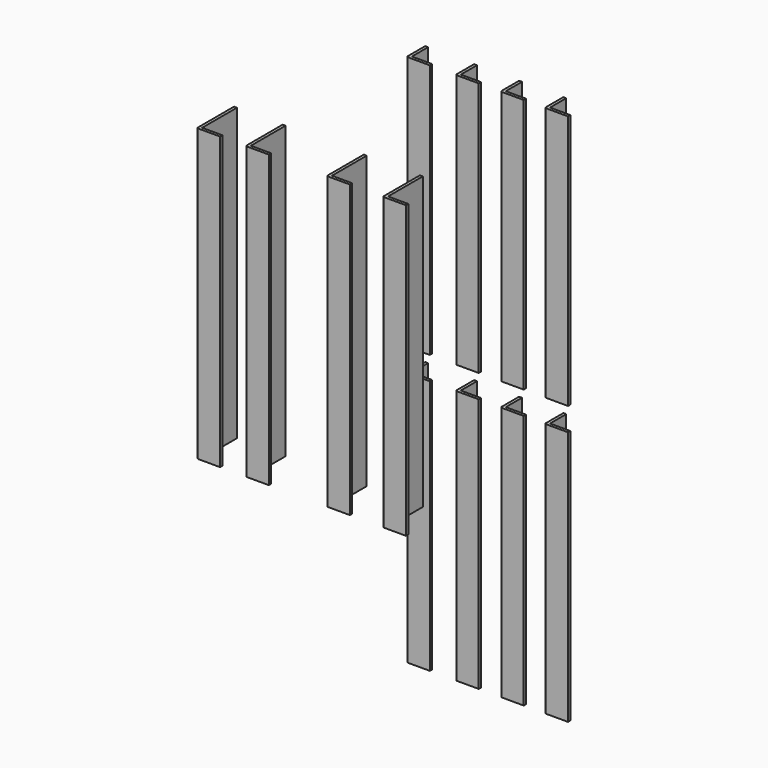
from build123d import *

# Parameters (mm, degrees)
F1_DEPTH = 139.7
F8_DEPTH = 159.46628


with BuildPart() as f1:
    # F0 (on Top) → F1 (new body, symmetric)
    with BuildSketch(Plane.XY):
        with BuildLine():
            Line((-49.7872025788, 48.7312248474), (-52.9622025788, 48.7312248474))
            Line((-52.9622025788, 48.7312248474), (-52.9622025788, 24.9187248474))
            ThreePointArc((-52.9622025788, 24.9187248474), (-52.4972345939, 23.7961928322), (-51.3747025788, 23.3312248474))
            Line((-51.3747025788, 23.3312248474), (-27.5622025788, 23.3312248474))
            Line((-27.5622025788, 23.3312248474), (-27.5622025788, 26.5062248474))
            Line((-27.5622025788, 26.5062248474), (-49.7872025788, 26.5062248474))
            Line((-49.7872025788, 26.5062248474), (-49.7872025788, 48.7312248474))
        make_face()
    extrude(amount=F1_DEPTH, both=True)


with BuildPart() as f2_1:
    # F2: copy of F1
    add(f1.part.moved(Location((53.594, 0, 0))))


with BuildPart() as f3_1:
    # F3: copy of F2_1
    add(f2_1.part.moved(Location((49.276, 0, 0))))


with BuildPart() as f4_1:
    # F4: copy of F2_1
    add(f2_1.part.moved(Location((97.79, 0, 0))))


with BuildPart() as f1_1:
    # F5: moved
    add(f1.part.moved(Location((0, 0, -193.294))))


with BuildPart() as f2_1_1:
    # F5: moved
    add(f2_1.part.moved(Location((0, 0, -193.294))))


with BuildPart() as f4_1_1:
    # F5: moved
    add(f4_1.part.moved(Location((0, 0, -193.294))))


with BuildPart() as f3_1_1:
    # F5: moved
    add(f3_1.part.moved(Location((0, 0, -193.294))))


with BuildPart() as f6_1:
    # F6: copy of F1
    add(f1_1.part.moved(Location((0, 0, 304.8))))


with BuildPart() as f6_2:
    # F6: copy of F2_1
    add(f2_1_1.part.moved(Location((0, 0, 304.8))))


with BuildPart() as f6_3:
    # F6: copy of F3_1
    add(f3_1_1.part.moved(Location((0, 0, 304.8))))


with BuildPart() as f6_4:
    # F6: copy of F4_1
    add(f4_1_1.part.moved(Location((0, 0, 304.8))))


with BuildPart() as f8:
    # F7 (on Top) → F8 (new body, symmetric)
    with BuildSketch(Plane.XY):
        with BuildLine():
            Line((-75.2944126725, -3.478971317), (-78.4694126725, -3.478971317))
            Line((-78.4694126725, -3.478971317), (-78.4694126725, -52.678771317))
            ThreePointArc((-78.4694126725, -52.678771317), (-78.0007249438, -53.8102835883), (-76.8692126725, -54.278971317))
            Line((-76.8692126725, -54.278971317), (-53.0694126725, -54.278971317))
            Line((-53.0694126725, -54.278971317), (-53.0694126725, -51.103971317))
            Line((-53.0694126725, -51.103971317), (-75.2944126725, -51.103971317))
            Line((-75.2944126725, -51.103971317), (-75.2944126725, -3.478971317))
        make_face()
    extrude(amount=F8_DEPTH, both=True)


with BuildPart() as f9_1:
    # F9: copy of F8
    add(f8.part.moved(Location((61.468, 0, 0))))


with BuildPart() as f10_1:
    # F10: copy of F8
    add(f8.part.moved(Location((-88.9, 0, 0))))


with BuildPart() as f11_1:
    # F11: copy of F10_1
    add(f10_1.part.moved(Location((-53.34, 0, 0))))


solid = Compound([f1_1.part, f2_1_1.part, f4_1_1.part, f3_1_1.part, f6_1.part, f6_2.part, f6_3.part, f6_4.part, f8.part, f9_1.part, f10_1.part, f11_1.part])
